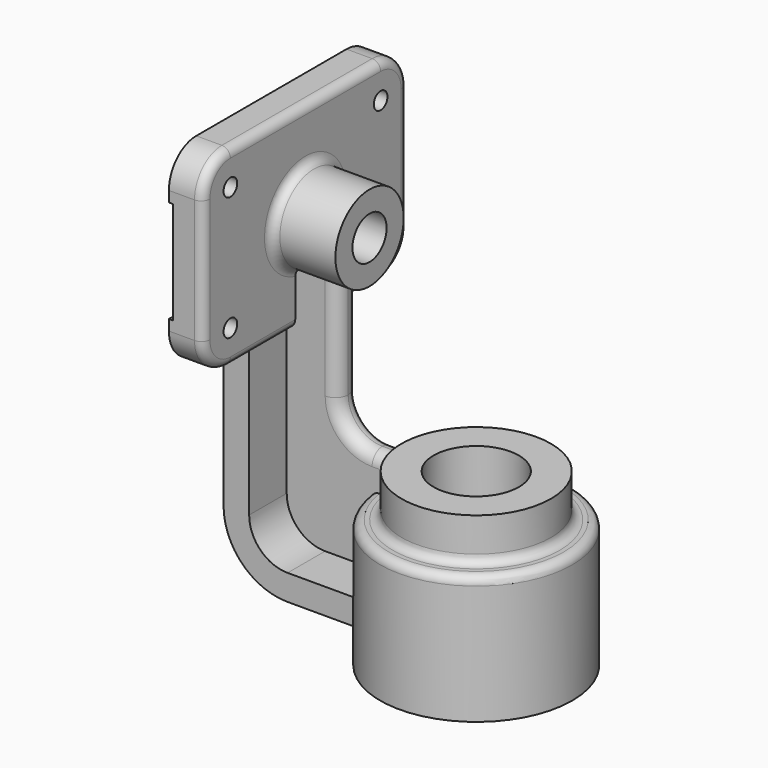
from build123d import *

# Parameters (mm, degrees)
PAD_DEPTH         = 8
SKETCH001_W       = 110.699124
SKETCH001_H       = 24
POCKET_DEPTH      = 1
SKETCH002_R       = 10
PAD001_DEPTH      = 23
PAD001_DEPTH_BACK = 4
PAD002_DEPTH      = 14
PAD003_DEPTH      = 3
FILLET_R          = 8
SKETCH006_R       = 5
POCKET001_DEPTH   = 27.001
FILLET001_R       = 2
FILLET002_R       = 2
FILLET003_R       = 2
FILLET004_R       = 2.99
SKETCH008_R       = 2
POCKET002_DEPTH   = 12.001


with BuildPart() as part:
    # Sketch → Pad (new body)
    with BuildSketch(Plane.YZ):
        with BuildLine():
            ThreePointArc((-22, 22.5), (-27.656854, 20.156854), (-30, 14.5))
            Line((-30, -14.5), (-30, 14.5))
            ThreePointArc((-30, -14.5), (-27.656854, -20.156854), (-22, -22.5))
            Line((22, -22.5), (-22, -22.5))
            ThreePointArc((22, -22.5), (27.656854, -20.156854), (30, -14.5))
            Line((30, 14.5), (30, -14.5))
            ThreePointArc((30, 14.5), (27.656854, 20.156854), (22, 22.5))
            Line((-22, 22.5), (22, 22.5))
        make_face()
    extrude(amount=PAD_DEPTH)

    # Sketch001 → Pocket (cut, symmetric)
    with BuildSketch(Plane.YZ):
        with Locations((0.220274, 0)):
            Rectangle(SKETCH001_W, SKETCH001_H)
    extrude(amount=POCKET_DEPTH, both=True, mode=Mode.SUBTRACT)

    # Sketch002 → Pad001 (join, two sides)
    with BuildSketch(Plane.YZ) as pad001_sk:
        Circle(SKETCH002_R)
    extrude(amount=PAD001_DEPTH)
    extrude(pad001_sk.sketch, amount=-PAD001_DEPTH_BACK)

    # Sketch003 → Pad002 (join, symmetric)
    with BuildSketch(Plane.XZ):
        with BuildLine():
            Line((0, -22.5), (0, -57))
            ThreePointArc((0, -57), (4.393398, -67.606602), (15, -72))
            Line((15, -72), (48, -72))
            Line((48, -72), (48, -66))
            Line((48, -66), (15, -66))
            ThreePointArc((6, -57), (8.636039, -63.363961), (15, -66))
            Line((6, -57), (6, -22.5))
            Line((0, -22.5), (6, -22.5))
        make_face()
    extrude(amount=PAD002_DEPTH, both=True)

    # Sketch004 → Revolution (revolve)
    with BuildSketch(Plane.XZ):
        Polygon((48, -80), (48, -40), (65.5, -40), (65.5, -50), (70.5, -50), (70.5, -80), align=None)
    revolve(axis=Axis((48, 0, -80), (0, 0, 1)))

    # Sketch005 → Pad003 (join, symmetric)
    with BuildSketch(Plane.XZ):
        with BuildLine():
            Line((0, -12), (0, -57))
            ThreePointArc((0, -57), (2.928932, -64.071068), (10, -67))
            Line((48, -67), (10, -67))
            Line((48, -42), (48, -67))
            Line((18, -42), (48, -42))
            Line((18, 0), (18, -42))
            Line((1, 0), (18, 0))
            Line((1, -12), (1, 0))
            Line((0, -12), (1, -12))
        make_face()
    extrude(amount=PAD003_DEPTH, both=True)

    # Fillet
    fillet_edges = [part.edges().sort_by_distance(p)[0] for p in [
        (18, 0, -42),
    ]]
    fillet(fillet_edges, radius=FILLET_R)

    # Sketch006 (on Face16 of Fillet) → Pocket001 (cut, through all)
    with BuildSketch(Plane.YZ.offset(23)):
        Circle(SKETCH006_R)
    extrude(amount=-POCKET001_DEPTH, mode=Mode.SUBTRACT)

    # Fillet001
    fillet001_edges = [part.edges().sort_by_distance(p)[0] for p in [
        (8, -5.91608, 8.062258),
    ]]
    fillet(fillet001_edges, radius=FILLET001_R)

    # Fillet002
    fillet002_edges = [part.edges().sort_by_distance(p)[0] for p in [
        (8, 0, 22.5),
    ]]
    fillet(fillet002_edges, radius=FILLET002_R)

    # Sketch007 → Groove (revolve, cut)
    with BuildSketch(Plane.XZ):
        Polygon((48, -40), (58, -40), (58, -55), (65, -55), (65, -58), (63, -58), (63, -80), (48, -80), align=None)
    revolve(axis=Axis((48, 0, -80), (0, 0, 1)), mode=Mode.SUBTRACT)

    # Fillet003
    fillet003_edges = [part.edges().sort_by_distance(p)[0] for p in [
        (49.505582, -17.435115, -50),
        (49.50336, -22.44972, -50),
    ]]
    fillet(fillet003_edges, radius=FILLET003_R)

    # Fillet004
    fillet004_edges = [part.edges().sort_by_distance(p)[0] for p in [
        (18, -3, -21.769696),
        (18, 3, -21.769696),
    ]]
    fillet(fillet004_edges, radius=FILLET004_R)

    # Sketch008 (on Face13 of Fillet004) → Pocket002 (cut, through all)
    with BuildSketch(Plane.YZ.offset(8)):
        with Locations((-22, 14.5)):
            Circle(SKETCH008_R)
        with Locations((22, 14.5)):
            Circle(SKETCH008_R)
        with Locations((22, -14.5)):
            Circle(SKETCH008_R)
        with Locations((-22, -14.5)):
            Circle(SKETCH008_R)
    extrude(amount=-POCKET002_DEPTH, mode=Mode.SUBTRACT)


solid = part.part
